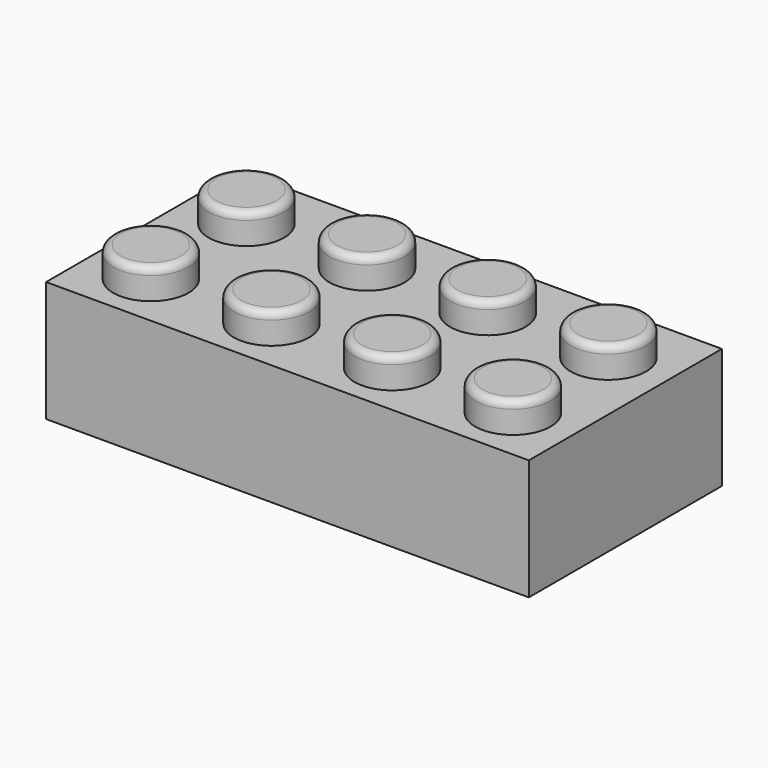
from build123d import *

# Parameters (mm, degrees)
F0_W     = 32
F0_H     = 16
F1_DEPTH = 8
F3_R     = 2.5
F4_DEPTH = 2
F5_R     = 0.5
F6_T     = -1.5


with BuildPart() as f1:
    # F0 (on Top) → F1 (new body)
    with BuildSketch(Plane.XY):
        with Locations((2.2459877655, -3.5711027315)):
            Rectangle(F0_W, F0_H)
    extrude(amount=F1_DEPTH)

    # F3 (on offset) → F4 (join)
    with BuildSketch(Plane.XY.offset(8)):
        with Locations((14.2650260329, 0)):
            Circle(F3_R)
        with Locations((14.2650260329, -7.9141333699)):
            Circle(F3_R)
        with Locations((6.2650260329, -7.9141333699)):
            Circle(F3_R)
        with Locations((6.2650260329, 0)):
            Circle(F3_R)
        with Locations((-1.7349739671, 0)):
            Circle(F3_R)
        with Locations((-1.7349739671, -7.9141333699)):
            Circle(F3_R)
        with Locations((-9.7349739671, -7.9141333699)):
            Circle(F3_R)
        with Locations((-9.7349739671, 0)):
            Circle(F3_R)
    extrude(amount=F4_DEPTH)

    # F5
    f5_edges = [f1.edges().sort_by_distance(p)[0] for p in [
        (11.765026, -7.914133, 10),
        (11.765026, 0, 10),
        (3.765026, 0, 10),
        (3.765026, -7.914133, 10),
        (-4.234974, -7.914133, 10),
        (-4.234974, 0, 10),
        (-12.234974, 0, 10),
        (-12.234974, -7.914133, 10),
    ]]
    fillet(f5_edges, radius=F5_R)

    # F6
    f6_openings = [f1.faces().sort_by_distance(p)[0] for p in [
        (2.245988, -3.571103, 0),
    ]]
    offset(amount=F6_T, openings=f6_openings, kind=Kind.INTERSECTION)


solid = f1.part
